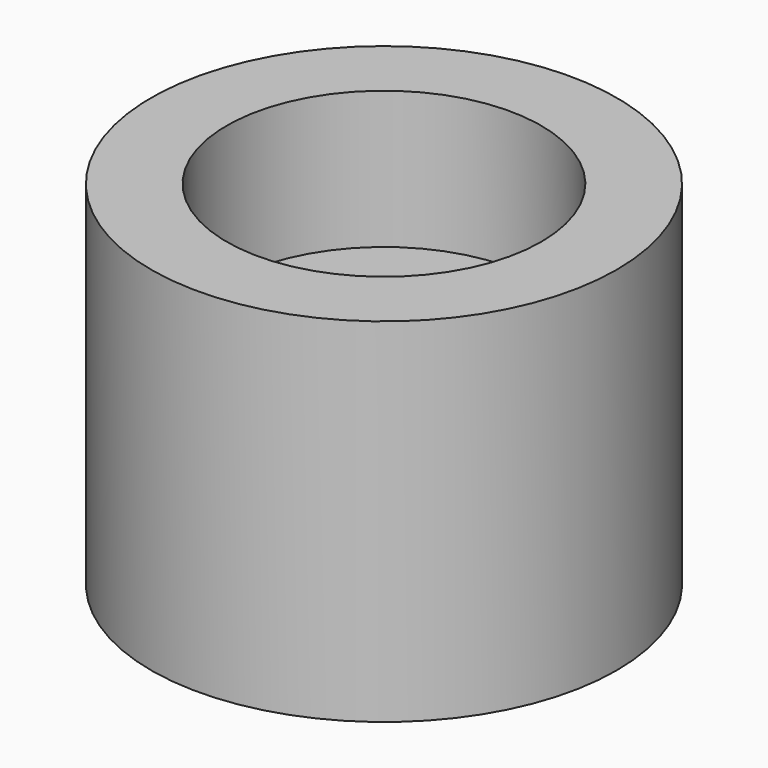
from build123d import *

# Parameters (mm, degrees)
F0_R     = 16.5
F0_R_2   = 5
F1_DEPTH = 25
F2_R     = 11.15
F3_DEPTH = 9.75
F4_R     = 11.225
F5_DEPTH = 9.5


with BuildPart() as f1:
    # F0 (on Top) → F1 (new body)
    with BuildSketch(Plane.XY):
        Circle(F0_R)
        Circle(F0_R_2, mode=Mode.SUBTRACT)
    extrude(amount=F1_DEPTH)

    # F2 (on face) → F3 (cut)
    with BuildSketch(Plane.XY.offset(25)):
        Circle(F2_R)
    extrude(amount=-F3_DEPTH, mode=Mode.SUBTRACT)

    # F4 (on Top) → F5 (cut)
    with BuildSketch(Plane.XY):
        Circle(F4_R)
    extrude(amount=F5_DEPTH, mode=Mode.SUBTRACT)


solid = f1.part
